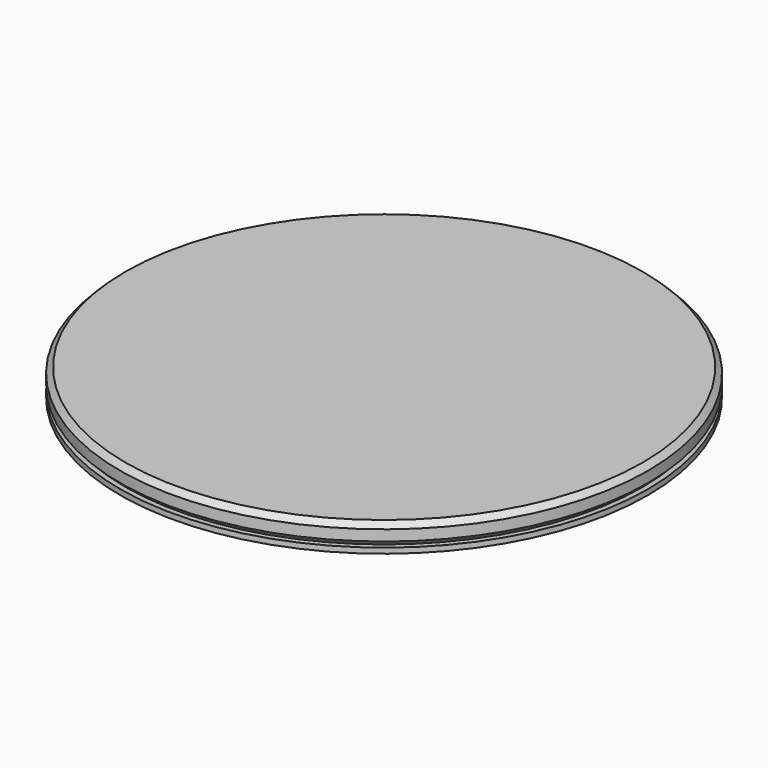
from build123d import *

# Parameters (mm, degrees)
F0_R     = 49
F1_DEPTH = 4
F2_SIZE  = 1
F3_R     = 49
F4_DEPTH = 1


with BuildPart() as f1:
    # F0 (on Top) → F1 (new body)
    with BuildSketch(Plane.XY):
        Circle(F0_R)
    extrude(amount=F1_DEPTH)

    # F2
    f2_edges = [f1.edges().sort_by_distance(p)[0] for p in [
        (-49, 0, 4),
        (-49, 0, 0),
    ]]
    chamfer(f2_edges, length=F2_SIZE)


with BuildPart() as f4:
    # F3 (on face) → F4 (new body)
    with BuildSketch(Plane(origin=(0, 0, 0), x_dir=(1, 0, 0), z_dir=(0, 0, -1))):
        Circle(F3_R)
    extrude(amount=F4_DEPTH)


solid = Compound([f1.part, f4.part])
